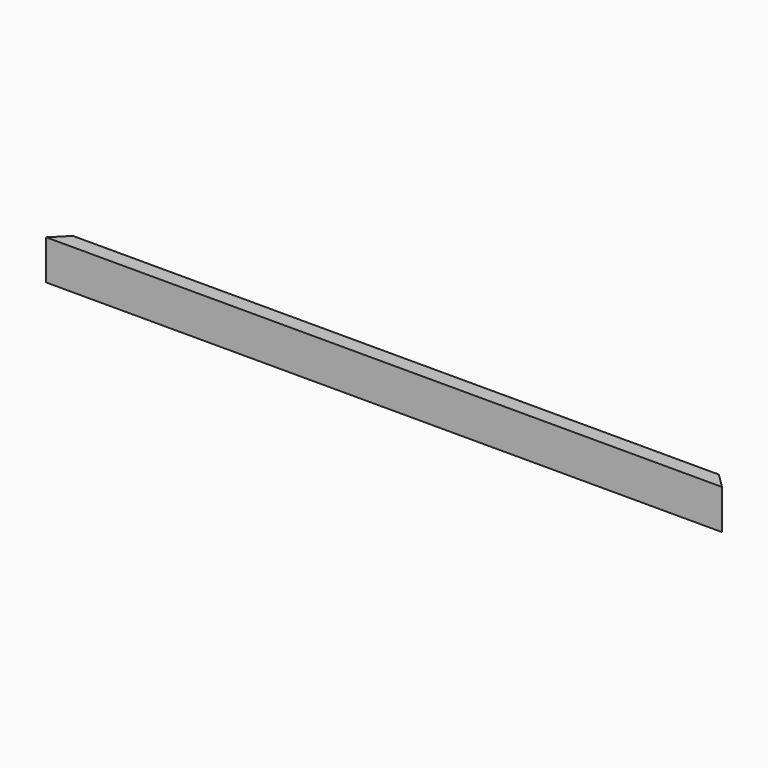
from build123d import *

# Parameters (mm, degrees)
F0_W     = 762
F0_H     = 50.8
F1_DEPTH = 19.05
F3_DEPTH = 762.001
F4_DEPTH = 50.8
F5_DEPTH = 50.8
F7_DEPTH = 50.801


with BuildPart() as f1:
    # F0 (on Front) → F1 (new body)
    with BuildSketch(Plane.XZ):
        Rectangle(F0_W, F0_H)
    extrude(amount=F1_DEPTH)

    # F2 (on face) → F3 (cut, through all)
    with BuildSketch(Plane(origin=(-381, 0, 0), x_dir=(0, -1, 0), z_dir=(-1, 0, 0))):
        Polygon((6.35, -29.9884248525), (6.35, -25.4), (6.35, 0), (0, 0), (-13.0046028644, 0), (-13.0046028644, -29.9884248525), align=None)
    extrude(amount=-F3_DEPTH, mode=Mode.SUBTRACT)

    # F4 (add): a face of the model
    f4_faces = [f1.faces().sort_by_distance(p)[0] for p in [
        (-381, -10.795, 2.54),
    ]]
    extrude(f4_faces, amount=F4_DEPTH)

    # F5 (add): a face of the model
    f5_faces = [f1.faces().sort_by_distance(p)[0] for p in [
        (381, -10.795, 2.54),
    ]]
    extrude(f5_faces, amount=F5_DEPTH)

    # F6 (on face) → F7 (cut, through all)
    with BuildSketch(Plane.XY.offset(25.4)):
        Polygon((412.75, 0), (431.8, -19.05), (436.4477694035, -19.05), (436.4477694035, 9.3147736043), (412.75, 9.3147736043), align=None)
        Polygon((-444.389373064, -19.05), (-431.8, -19.05), (-412.75, 0), (-412.75, 9.4755124301), (-444.389373064, 9.4755124301), align=None)
    extrude(amount=-F7_DEPTH, mode=Mode.SUBTRACT)


solid = f1.part
